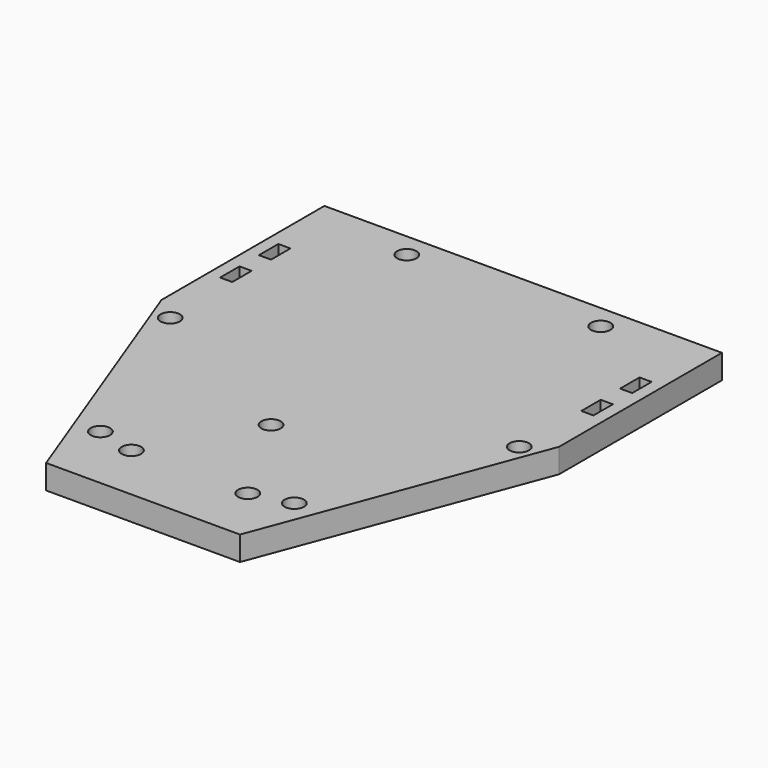
from build123d import *

# Parameters (mm, degrees)
F1_DEPTH = 6.35
F3_D     = 5.08
F4_W     = 3.175
F4_H     = 6.35
F5_DEPTH = 25.4


with BuildPart() as f1:
    # F0 (on Top) → F1 (new body)
    with BuildSketch(Plane.XY):
        Polygon((52.07, 29.21), (52.07, 82.55), (-52.07, 82.55), (-52.07, 29.21), (-25.4, -41.91), (0, -41.91), (25.4, -41.91), align=None)
    extrude(amount=F1_DEPTH)

    # F3 (through all)
    with Locations(Plane.XY.offset(6.35)):
        with Locations((-15.24, -26.67), (15.24, -26.67), (0, 0), (-45.72, 24.13), (-25.4, -24.13), (25.4, -24.13), (45.72, 24.13), (25.4, 76.2), (-25.4, 76.2)):
            Hole(F3_D / 2)

    # F4 (on face) → F5 (cut)
    with BuildSketch(Plane.XY.offset(6.35)):
        with Locations((-47.3075, 60.325)):
            Rectangle(F4_W, F4_H)
        with Locations((47.3075, 60.325)):
            Rectangle(F4_W, F4_H)
        with Locations((-47.3075, 47.625)):
            Rectangle(F4_W, F4_H)
        with Locations((47.3075, 47.625)):
            Rectangle(F4_W, F4_H)
    extrude(amount=-F5_DEPTH, mode=Mode.SUBTRACT)


solid = f1.part
